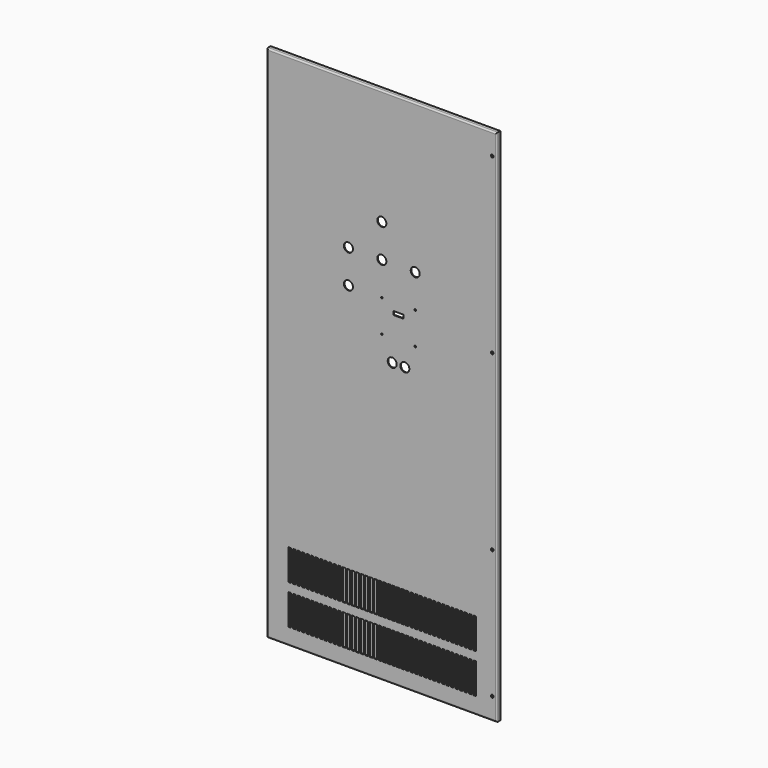
from build123d import *

# Parameters (mm, degrees)
F0_W     = 808.0375
F0_H     = 1824.99
F1_DEPTH = 7.9375
F2_T     = -2.65684
F3_R     = 5.08
F4_R     = 4.7625
F4_W     = 9.525
F4_H     = 107.95
F4_R_2   = 15.875
F4_W_2   = 35.56
F4_H_2   = 12.7
F4_R_3   = 2.7686
F5_DEPTH = 15.876
F7_W     = 1.5875
F7_H     = 19.05


with BuildPart() as f1:
    # F0 (on Front) → F1 (new body, symmetric)
    with BuildSketch(Plane.XZ):
        Rectangle(F0_W, F0_H)
        Rectangle(F0_W, F0_H)
    extrude(amount=F1_DEPTH, both=True)

    # F2
    f2_openings = [f1.faces().sort_by_distance(p)[0] for p in [
        (0, 7.9375, 0),
    ]]
    offset(amount=F2_T, openings=f2_openings)

    # F3
    f3_edges = [f1.edges().sort_by_distance(p)[0] for p in [
        (0, -7.9375, 912.495),
        (404.01875, -7.9375, 0),
        (-404.01875, -7.9375, 0),
        (0, -7.9375, -912.495),
    ]]
    fillet(f3_edges, radius=F3_R)

    # F4 (on face) → F5 (cut, through all)
    with BuildSketch(Plane.XZ.offset(7.9375)):
        with Locations((388.14375, 836.295)):
            Circle(F4_R)
        with Locations((388.14375, -382.905)):
            Circle(F4_R)
        with Locations((388.14375, -836.295)):
            Circle(F4_R)
        with Locations((327.01865, -800.608)):
            Rectangle(F4_W, F4_H)
        with Locations((311.14365, -800.608)):
            Rectangle(F4_W, F4_H)
        with Locations((295.26865, -800.608)):
            Rectangle(F4_W, F4_H)
        with Locations((279.39365, -800.608)):
            Rectangle(F4_W, F4_H)
        with Locations((263.51865, -800.608)):
            Rectangle(F4_W, F4_H)
        with Locations((247.64365, -800.608)):
            Rectangle(F4_W, F4_H)
        with Locations((231.76865, -800.608)):
            Rectangle(F4_W, F4_H)
        with Locations((215.89365, -800.608)):
            Rectangle(F4_W, F4_H)
        with Locations((200.01865, -800.608)):
            Rectangle(F4_W, F4_H)
        with Locations((184.14365, -800.608)):
            Rectangle(F4_W, F4_H)
        with Locations((168.26865, -800.608)):
            Rectangle(F4_W, F4_H)
        with Locations((152.39365, -800.608)):
            Rectangle(F4_W, F4_H)
        with Locations((136.51865, -800.608)):
            Rectangle(F4_W, F4_H)
        with Locations((120.64365, -800.608)):
            Rectangle(F4_W, F4_H)
        with Locations((104.76865, -800.608)):
            Rectangle(F4_W, F4_H)
        with Locations((88.89365, -800.608)):
            Rectangle(F4_W, F4_H)
        with Locations((73.01865, -800.608)):
            Rectangle(F4_W, F4_H)
        with Locations((57.14365, -800.608)):
            Rectangle(F4_W, F4_H)
        with Locations((41.26865, -800.608)):
            Rectangle(F4_W, F4_H)
        with Locations((25.39365, -800.608)):
            Rectangle(F4_W, F4_H)
        with Locations((9.51865, -800.608)):
            Rectangle(F4_W, F4_H)
        with Locations((-6.35635, -800.608)):
            Rectangle(F4_W, F4_H)
        with Locations((-22.23135, -800.608)):
            Rectangle(F4_W, F4_H)
        with Locations((-38.10635, -800.608)):
            Rectangle(F4_W, F4_H)
        with Locations((-53.98135, -800.608)):
            Rectangle(F4_W, F4_H)
        with Locations((-69.85635, -800.608)):
            Rectangle(F4_W, F4_H)
        with Locations((-85.73135, -800.608)):
            Rectangle(F4_W, F4_H)
        with Locations((-101.60635, -800.608)):
            Rectangle(F4_W, F4_H)
        with Locations((-117.48135, -800.608)):
            Rectangle(F4_W, F4_H)
        with Locations((-133.35635, -800.608)):
            Rectangle(F4_W, F4_H)
        with Locations((-149.23135, -800.608)):
            Rectangle(F4_W, F4_H)
        with Locations((-165.10635, -800.608)):
            Rectangle(F4_W, F4_H)
        with Locations((-180.98135, -800.608)):
            Rectangle(F4_W, F4_H)
        with Locations((-196.85635, -800.608)):
            Rectangle(F4_W, F4_H)
        with Locations((-212.73135, -800.608)):
            Rectangle(F4_W, F4_H)
        with Locations((-228.60635, -800.608)):
            Rectangle(F4_W, F4_H)
        with Locations((-244.48135, -800.608)):
            Rectangle(F4_W, F4_H)
        with Locations((-260.35635, -800.608)):
            Rectangle(F4_W, F4_H)
        with Locations((-276.23135, -800.608)):
            Rectangle(F4_W, F4_H)
        with Locations((-292.10635, -800.608)):
            Rectangle(F4_W, F4_H)
        with Locations((-307.98135, -800.608)):
            Rectangle(F4_W, F4_H)
        with Locations((-323.85635, -800.608)):
            Rectangle(F4_W, F4_H)
        with Locations((327.01865, -661.67)):
            Rectangle(F4_W, F4_H)
        with Locations((311.14365, -661.67)):
            Rectangle(F4_W, F4_H)
        with Locations((295.26865, -661.67)):
            Rectangle(F4_W, F4_H)
        with Locations((279.39365, -661.67)):
            Rectangle(F4_W, F4_H)
        with Locations((263.51865, -661.67)):
            Rectangle(F4_W, F4_H)
        with Locations((247.64365, -661.67)):
            Rectangle(F4_W, F4_H)
        with Locations((231.76865, -661.67)):
            Rectangle(F4_W, F4_H)
        with Locations((215.89365, -661.67)):
            Rectangle(F4_W, F4_H)
        with Locations((200.01865, -661.67)):
            Rectangle(F4_W, F4_H)
        with Locations((184.14365, -661.67)):
            Rectangle(F4_W, F4_H)
        with Locations((168.26865, -661.67)):
            Rectangle(F4_W, F4_H)
        with Locations((152.39365, -661.67)):
            Rectangle(F4_W, F4_H)
        with Locations((136.51865, -661.67)):
            Rectangle(F4_W, F4_H)
        with Locations((120.64365, -661.67)):
            Rectangle(F4_W, F4_H)
        with Locations((104.76865, -661.67)):
            Rectangle(F4_W, F4_H)
        with Locations((88.89365, -661.67)):
            Rectangle(F4_W, F4_H)
        with Locations((73.01865, -661.67)):
            Rectangle(F4_W, F4_H)
        with Locations((57.14365, -661.67)):
            Rectangle(F4_W, F4_H)
        with Locations((41.26865, -661.67)):
            Rectangle(F4_W, F4_H)
        with Locations((25.39365, -661.67)):
            Rectangle(F4_W, F4_H)
        with Locations((9.51865, -661.67)):
            Rectangle(F4_W, F4_H)
        with Locations((-6.35635, -661.67)):
            Rectangle(F4_W, F4_H)
        with Locations((-22.23135, -661.67)):
            Rectangle(F4_W, F4_H)
        with Locations((-38.10635, -661.67)):
            Rectangle(F4_W, F4_H)
        with Locations((-53.98135, -661.67)):
            Rectangle(F4_W, F4_H)
        with Locations((-69.85635, -661.67)):
            Rectangle(F4_W, F4_H)
        with Locations((-85.73135, -661.67)):
            Rectangle(F4_W, F4_H)
        with Locations((-101.60635, -661.67)):
            Rectangle(F4_W, F4_H)
        with Locations((-117.48135, -661.67)):
            Rectangle(F4_W, F4_H)
        with Locations((-133.35635, -661.67)):
            Rectangle(F4_W, F4_H)
        with Locations((-149.23135, -661.67)):
            Rectangle(F4_W, F4_H)
        with Locations((-165.10635, -661.67)):
            Rectangle(F4_W, F4_H)
        with Locations((-180.98135, -661.67)):
            Rectangle(F4_W, F4_H)
        with Locations((-196.85635, -661.67)):
            Rectangle(F4_W, F4_H)
        with Locations((-212.73135, -661.67)):
            Rectangle(F4_W, F4_H)
        with Locations((-228.60635, -661.67)):
            Rectangle(F4_W, F4_H)
        with Locations((-244.48135, -661.67)):
            Rectangle(F4_W, F4_H)
        with Locations((-260.35635, -661.67)):
            Rectangle(F4_W, F4_H)
        with Locations((-276.23135, -661.67)):
            Rectangle(F4_W, F4_H)
        with Locations((-292.10635, -661.67)):
            Rectangle(F4_W, F4_H)
        with Locations((-307.98135, -661.67)):
            Rectangle(F4_W, F4_H)
        with Locations((-323.85635, -661.67)):
            Rectangle(F4_W, F4_H)
        with Locations((388.14375, 226.695)):
            Circle(F4_R)
        with Locations((0, 388.62)):
            Circle(F4_R_2)
        with Locations((117.475, 388.62)):
            Circle(F4_R_2)
        with Locations((-117.475, 388.62)):
            Circle(F4_R_2)
        with Locations((0, 506.095)):
            Circle(F4_R_2)
        with Locations((-117.475, 271.145)):
            Circle(F4_R_2)
        with Locations((58.801, 237.2868)):
            Rectangle(F4_W_2, F4_H_2)
        with Locations((0, 271.145)):
            Circle(F4_R_3)
        with Locations((117.602, 271.145)):
            Circle(F4_R_3)
        with Locations((117.602, 158.369)):
            Circle(F4_R_3)
        with Locations((0, 158.369)):
            Circle(F4_R_3)
        with Locations((36.576, 82.169)):
            Circle(F4_R_2)
        with Locations((81.026, 82.169)):
            Circle(F4_R_2)
    extrude(amount=-F5_DEPTH, mode=Mode.SUBTRACT)

    # F7 (on offset) → F8 (revolve)
    with BuildSketch(Plane.YZ.offset(-396.59941)):
        with Locations((-4.48691, 833.63816)):
            Rectangle(F7_W, F7_H)
        with Locations((-4.48691, 225.62566)):
            Rectangle(F7_W, F7_H)
        with Locations((-4.48691, -382.38684)):
            Rectangle(F7_W, F7_H)
        with Locations((-4.48691, -833.63816)):
            Rectangle(F7_W, F7_H)
    revolve(axis=Axis((-396.59941, -0.51816, 0), (0, 0, -1)))


solid = f1.part
